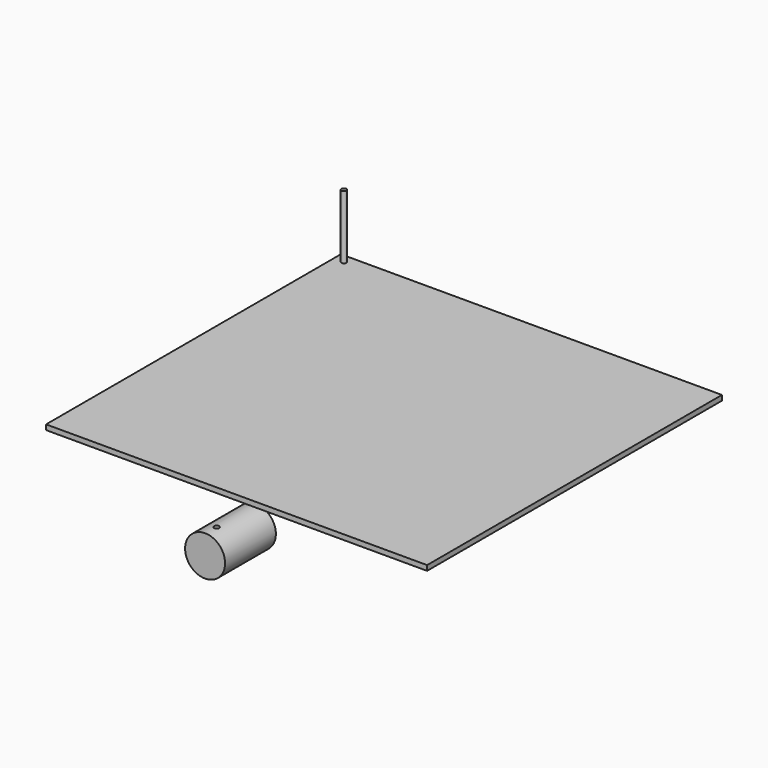
from build123d import *

# Parameters (mm, degrees)
F0_W     = 150
F0_H     = 145.0873134014
F1_DEPTH = 2
F2_R     = 1
F3_DEPTH = 25
F4_R     = 7.8704486126
F5_DEPTH = 25
F7_D     = 2
F7_DEPTH = 150
F7_START = 47.141724
F7_TIP   = 0.600860619


with BuildPart() as f1:
    # F0 (on Top) → F1 (new body)
    with BuildSketch(Plane.XY):
        Rectangle(F0_W, F0_H)
    extrude(amount=F1_DEPTH)


with BuildPart() as f3:
    # F2 (on face) → F3 (new body)
    with BuildSketch(Plane.XY.offset(2)):
        with Locations((-71.069650352, 69.1195726395)):
            Circle(F2_R)
    extrude(amount=F3_DEPTH)


with BuildPart() as f5:
    # F4 (on Front) → F5 (new body)
    with BuildSketch(Plane.XZ):
        with Locations((-50.4405274987, -54.9226738513)):
            Circle(F4_R)
    extrude(amount=F5_DEPTH)

    # F7
    # its depths count from where the whole tool has entered the part; down to there all is cleared
    with Locations(Plane.XY.offset(-F7_START)):
        with Locations((-50.2569824457, -19.5883531123)):
            Hole(F7_D / 2, depth=F7_DEPTH)
            with Locations((0, 0, -(F7_DEPTH + F7_TIP / 2))):  # 118° drill point
                Cone(0, F7_D / 2, F7_TIP, mode=Mode.SUBTRACT)


solid = Compound([f1.part, f3.part, f5.part])
